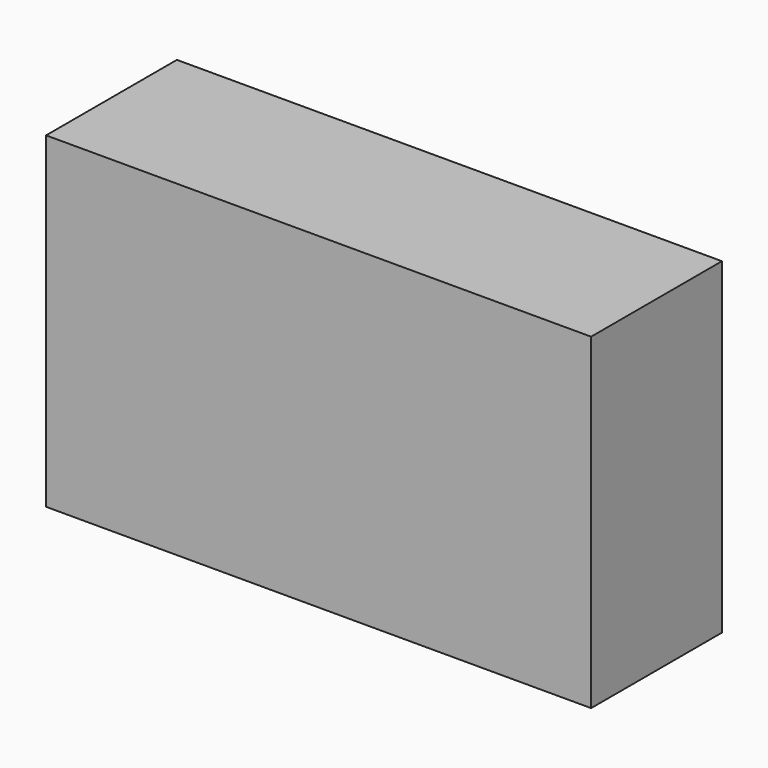
from build123d import *

# Parameters (mm, degrees)
F0_W     = 127
F0_H     = 76.2
F2_DEPTH = 38.1
F1_R     = 12.7
F3_DEPTH = 25.4
F4_R     = 12.7
F5_DEPTH = 76.2


with BuildPart() as f2:
    # F0 (on Front) → F2 (new body)
    with BuildSketch(Plane.XZ):
        with Locations((2e-06, 0.01443)):
            Rectangle(F0_W, F0_H)
    extrude(amount=F2_DEPTH)

    # F1 (on Front) → F3 (cut)
    with BuildSketch(Plane.XZ):
        Circle(F1_R)
    extrude(amount=F3_DEPTH, mode=Mode.SUBTRACT)

    # F4 (on Right) → F5 (cut)
    with BuildSketch(Plane.YZ):
        with Locations((-23.99939, 0)):
            Circle(F4_R)
    extrude(amount=-F5_DEPTH, mode=Mode.SUBTRACT)


solid = f2.part
